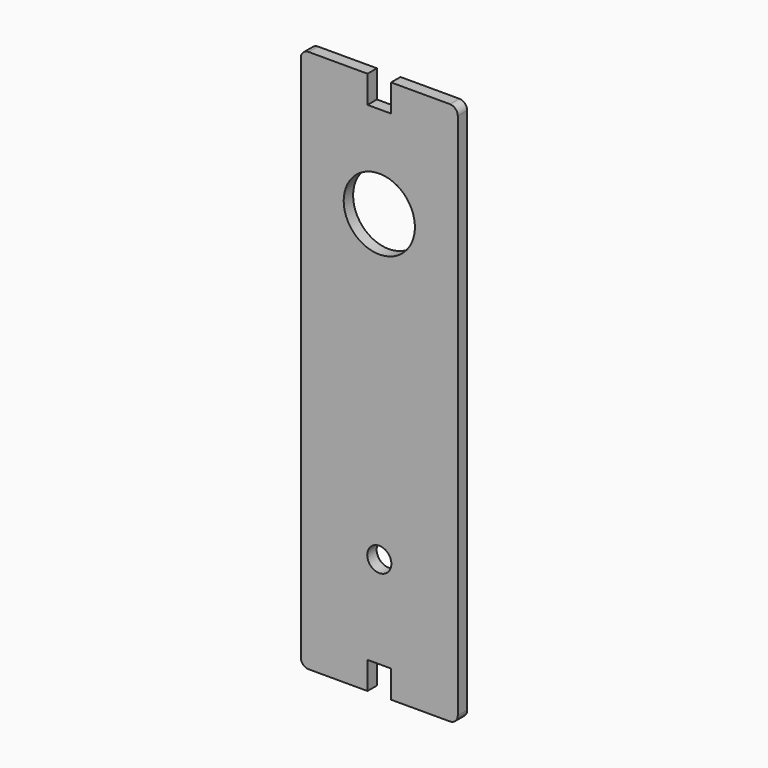
from build123d import *

# Parameters (mm, degrees)
F1_DEPTH = 3
F4_D     = 18.15
F6_D     = 6.15
F7_R     = 2


with BuildPart() as f1:
    # F0 (on Front) → F1 (new body)
    with BuildSketch(Plane.XZ):
        Polygon((0, -124.5), (0, 0), (-3, 0), (-3, 7), (-20, 7), (-20, -131.5), (-3, -131.5), (-3, -124.5), align=None)
    extrude(amount=F1_DEPTH)

    # F2: F1 across plane


with BuildPart() as f1_1:
    add(f1.part)
    add(f1.part.mirror(Plane.YZ))

    # F4 (through all)
    with Locations(Plane.XZ.offset(3)):
        with Locations((0, -23.5)):
            Hole(F4_D / 2)

    # F6 (through all)
    with Locations(Plane.XZ.offset(3)):
        with Locations((0, -101)):
            Hole(F6_D / 2)

    # F7
    f7_edges = [f1_1.edges().sort_by_distance(p)[0] for p in [
        (20, -1.5, -131.5),
        (-20, -1.5, -131.5),
        (-20, -1.5, 7),
        (20, -1.5, 7),
    ]]
    fillet(f7_edges, radius=F7_R)


solid = f1_1.part
